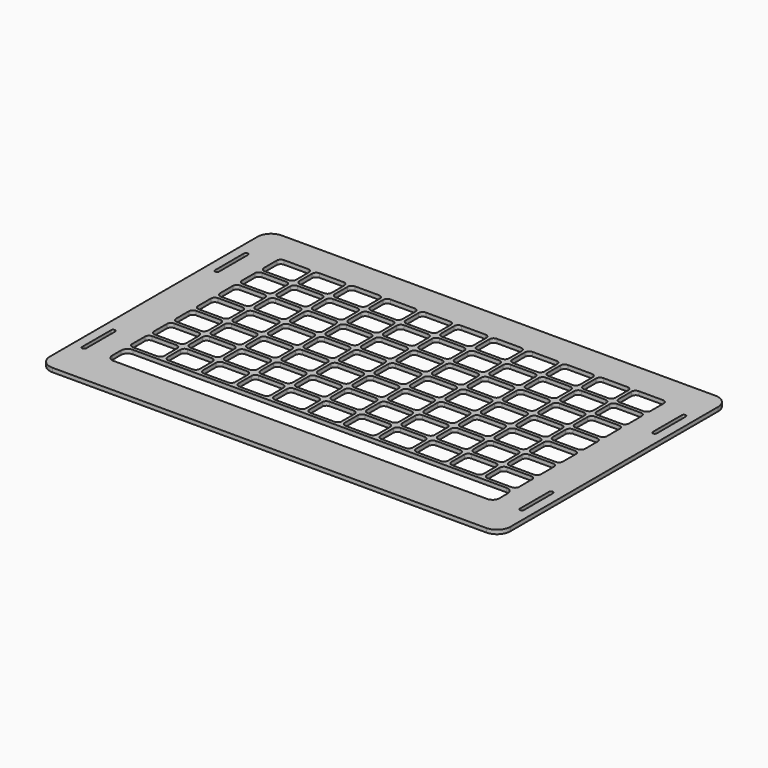
from build123d import *

# Parameters (mm, degrees)
F1_DEPTH = 3
F3_DEPTH = 3
F5_DEPTH = 3
F7_DEPTH = 3


with BuildPart() as f1:
    # F0 (on Top) → F1 (new body)
    with BuildSketch(Plane.XY):
        with BuildLine():
            Line((-162, -107), (162, -107))
            ThreePointArc((162, -107), (169.071068, -104.071068), (172, -97))
            Line((172, -97), (172, 97))
            ThreePointArc((172, 97), (169.071068, 104.071068), (162, 107))
            Line((162, 107), (-162, 107))
            ThreePointArc((-162, 107), (-169.071068, 104.071068), (-172, 97))
            Line((-172, 97), (-172, -97))
            ThreePointArc((-172, -97), (-169.071068, -104.071068), (-162, -107))
        make_face()
    extrude(amount=F1_DEPTH)

    # F2 (on face) → F3 (cut)
    with BuildSketch(Plane.XY.offset(3)):
        with BuildLine():
            Line((-162, -75.5), (-162, -48.5))
            ThreePointArc((-162, -48.5), (-162.43934, -47.43934), (-163.5, -47))
            ThreePointArc((-163.5, -47), (-164.56066, -47.43934), (-165, -48.5))
            Line((-165, -48.5), (-165, -75.5))
            ThreePointArc((-165, -75.5), (-164.56066, -76.56066), (-163.5, -77))
            ThreePointArc((-163.5, -77), (-162.43934, -76.56066), (-162, -75.5))
        make_face()
        with BuildLine():
            ThreePointArc((162, -75.5), (162.43934, -76.56066), (163.5, -77))
            ThreePointArc((163.5, -77), (164.56066, -76.56066), (165, -75.5))
            Line((165, -75.5), (165, -48.5))
            ThreePointArc((165, -48.5), (164.56066, -47.43934), (163.5, -47))
            ThreePointArc((163.5, -47), (162.43934, -47.43934), (162, -48.5))
            Line((162, -48.5), (162, -75.5))
        make_face()
        with BuildLine():
            ThreePointArc((-163.5, 77), (-164.56066, 76.56066), (-165, 75.5))
            Line((-165, 75.5), (-165, 48.5))
            ThreePointArc((-165, 48.5), (-164.56066, 47.43934), (-163.5, 47))
            ThreePointArc((-163.5, 47), (-162.43934, 47.43934), (-162, 48.5))
            Line((-162, 48.5), (-162, 75.5))
            ThreePointArc((-162, 75.5), (-162.43934, 76.56066), (-163.5, 77))
        make_face()
        with BuildLine():
            Line((165, 48.5), (165, 75.5))
            ThreePointArc((165, 75.5), (164.56066, 76.56066), (163.5, 77))
            ThreePointArc((163.5, 77), (162.43934, 76.56066), (162, 75.5))
            Line((162, 75.5), (162, 48.5))
            ThreePointArc((162, 48.5), (162.43934, 47.43934), (163.5, 47))
            ThreePointArc((163.5, 47), (164.56066, 47.43934), (165, 48.5))
        make_face()
    extrude(amount=-F3_DEPTH, mode=Mode.SUBTRACT)

    # F4 (on face) → F5 (cut)
    with BuildSketch(Plane.XY.offset(3)):
        with BuildLine():
            ThreePointArc((-12, 7), (-11.12132, 4.87868), (-9, 4))
            Line((-9, 4), (9, 4))
            ThreePointArc((9, 4), (11.12132, 4.87868), (12, 7))
            Line((12, 7), (12, 19))
            ThreePointArc((12, 19), (11.12132, 21.12132), (9, 22))
            Line((9, 22), (-9, 22))
            ThreePointArc((-9, 22), (-11.12132, 21.12132), (-12, 19))
            Line((-12, 19), (-12, 7))
        make_face()
        with BuildLine():
            Line((38.5, 7), (38.5, 19))
            ThreePointArc((38.5, 19), (37.62132, 21.12132), (35.5, 22))
            Line((35.5, 22), (17.5, 22))
            ThreePointArc((17.5, 22), (15.37868, 21.12132), (14.5, 19))
            Line((14.5, 19), (14.5, 7))
            ThreePointArc((14.5, 7), (15.37868, 4.87868), (17.5, 4))
            Line((17.5, 4), (35.5, 4))
            ThreePointArc((35.5, 4), (37.62132, 4.87868), (38.5, 7))
        make_face()
        with BuildLine():
            Line((65, 7), (65, 19))
            ThreePointArc((65, 19), (64.12132, 21.12132), (62, 22))
            Line((62, 22), (44, 22))
            ThreePointArc((44, 22), (41.87868, 21.12132), (41, 19))
            Line((41, 19), (41, 7))
            ThreePointArc((41, 7), (41.87868, 4.87868), (44, 4))
            Line((44, 4), (62, 4))
            ThreePointArc((62, 4), (64.12132, 4.87868), (65, 7))
        make_face()
        with BuildLine():
            Line((91.5, 7), (91.5, 19))
            ThreePointArc((91.5, 19), (90.62132, 21.12132), (88.5, 22))
            Line((88.5, 22), (70.5, 22))
            ThreePointArc((70.5, 22), (68.37868, 21.12132), (67.5, 19))
            Line((67.5, 19), (67.5, 7))
            ThreePointArc((67.5, 7), (68.37868, 4.87868), (70.5, 4))
            Line((70.5, 4), (88.5, 4))
            ThreePointArc((88.5, 4), (90.62132, 4.87868), (91.5, 7))
        make_face()
        with BuildLine():
            Line((118, 7), (118, 19))
            ThreePointArc((118, 19), (117.12132, 21.12132), (115, 22))
            Line((115, 22), (97, 22))
            ThreePointArc((97, 22), (94.87868, 21.12132), (94, 19))
            Line((94, 19), (94, 7))
            ThreePointArc((94, 7), (94.87868, 4.87868), (97, 4))
            Line((97, 4), (115, 4))
            ThreePointArc((115, 4), (117.12132, 4.87868), (118, 7))
        make_face()
        with BuildLine():
            Line((144.5, 7), (144.5, 19))
            ThreePointArc((144.5, 19), (143.62132, 21.12132), (141.5, 22))
            Line((141.5, 22), (123.5, 22))
            ThreePointArc((123.5, 22), (121.37868, 21.12132), (120.5, 19))
            Line((120.5, 19), (120.5, 7))
            ThreePointArc((120.5, 7), (121.37868, 4.87868), (123.5, 4))
            Line((123.5, 4), (141.5, 4))
            ThreePointArc((141.5, 4), (143.62132, 4.87868), (144.5, 7))
        make_face()
        with BuildLine():
            Line((-14.5, 7), (-14.5, 19))
            ThreePointArc((-14.5, 19), (-15.37868, 21.12132), (-17.5, 22))
            Line((-17.5, 22), (-35.5, 22))
            ThreePointArc((-35.5, 22), (-37.62132, 21.12132), (-38.5, 19))
            Line((-38.5, 19), (-38.5, 7))
            ThreePointArc((-38.5, 7), (-37.62132, 4.87868), (-35.5, 4))
            Line((-35.5, 4), (-17.5, 4))
            ThreePointArc((-17.5, 4), (-15.37868, 4.87868), (-14.5, 7))
        make_face()
        with BuildLine():
            Line((-41, 7), (-41, 19))
            ThreePointArc((-41, 19), (-41.87868, 21.12132), (-44, 22))
            Line((-44, 22), (-62, 22))
            ThreePointArc((-62, 22), (-64.12132, 21.12132), (-65, 19))
            Line((-65, 19), (-65, 7))
            ThreePointArc((-65, 7), (-64.12132, 4.87868), (-62, 4))
            Line((-62, 4), (-44, 4))
            ThreePointArc((-44, 4), (-41.87868, 4.87868), (-41, 7))
        make_face()
        with BuildLine():
            Line((-67.5, 7), (-67.5, 19))
            ThreePointArc((-67.5, 19), (-68.37868, 21.12132), (-70.5, 22))
            Line((-70.5, 22), (-88.5, 22))
            ThreePointArc((-88.5, 22), (-90.62132, 21.12132), (-91.5, 19))
            Line((-91.5, 19), (-91.5, 7))
            ThreePointArc((-91.5, 7), (-90.62132, 4.87868), (-88.5, 4))
            Line((-88.5, 4), (-70.5, 4))
            ThreePointArc((-70.5, 4), (-68.37868, 4.87868), (-67.5, 7))
        make_face()
        with BuildLine():
            Line((-94, 7), (-94, 19))
            ThreePointArc((-94, 19), (-94.87868, 21.12132), (-97, 22))
            Line((-97, 22), (-115, 22))
            ThreePointArc((-115, 22), (-117.12132, 21.12132), (-118, 19))
            Line((-118, 19), (-118, 7))
            ThreePointArc((-118, 7), (-117.12132, 4.87868), (-115, 4))
            Line((-115, 4), (-97, 4))
            ThreePointArc((-97, 4), (-94.87868, 4.87868), (-94, 7))
        make_face()
        with BuildLine():
            Line((-120.5, 7), (-120.5, 19))
            ThreePointArc((-120.5, 19), (-121.37868, 21.12132), (-123.5, 22))
            Line((-123.5, 22), (-141.5, 22))
            ThreePointArc((-141.5, 22), (-143.62132, 21.12132), (-144.5, 19))
            Line((-144.5, 19), (-144.5, 7))
            ThreePointArc((-144.5, 7), (-143.62132, 4.87868), (-141.5, 4))
            Line((-141.5, 4), (-123.5, 4))
            ThreePointArc((-123.5, 4), (-121.37868, 4.87868), (-120.5, 7))
        make_face()
        with BuildLine():
            Line((9, 42.5), (-9, 42.5))
            ThreePointArc((-9, 42.5), (-11.12132, 41.62132), (-12, 39.5))
            Line((-12, 39.5), (-12, 27.5))
            ThreePointArc((-12, 27.5), (-11.12132, 25.37868), (-9, 24.5))
            Line((-9, 24.5), (9, 24.5))
            ThreePointArc((9, 24.5), (11.12132, 25.37868), (12, 27.5))
            Line((12, 27.5), (12, 39.5))
            ThreePointArc((12, 39.5), (11.12132, 41.62132), (9, 42.5))
        make_face()
        with BuildLine():
            Line((-44, 42.5), (-62, 42.5))
            ThreePointArc((-62, 42.5), (-64.12132, 41.62132), (-65, 39.5))
            Line((-65, 39.5), (-65, 27.5))
            ThreePointArc((-65, 27.5), (-64.12132, 25.37868), (-62, 24.5))
            Line((-62, 24.5), (-44, 24.5))
            ThreePointArc((-44, 24.5), (-41.87868, 25.37868), (-41, 27.5))
            Line((-41, 27.5), (-41, 39.5))
            ThreePointArc((-41, 39.5), (-41.87868, 41.62132), (-44, 42.5))
        make_face()
        with BuildLine():
            Line((-97, 42.5), (-115, 42.5))
            ThreePointArc((-115, 42.5), (-117.12132, 41.62132), (-118, 39.5))
            Line((-118, 39.5), (-118, 27.5))
            ThreePointArc((-118, 27.5), (-117.12132, 25.37868), (-115, 24.5))
            Line((-115, 24.5), (-97, 24.5))
            ThreePointArc((-97, 24.5), (-94.87868, 25.37868), (-94, 27.5))
            Line((-94, 27.5), (-94, 39.5))
            ThreePointArc((-94, 39.5), (-94.87868, 41.62132), (-97, 42.5))
        make_face()
        with BuildLine():
            ThreePointArc((14.5, 27.5), (15.37868, 25.37868), (17.5, 24.5))
            Line((17.5, 24.5), (35.5, 24.5))
            ThreePointArc((35.5, 24.5), (37.62132, 25.37868), (38.5, 27.5))
            Line((38.5, 27.5), (38.5, 39.5))
            ThreePointArc((38.5, 39.5), (37.62132, 41.62132), (35.5, 42.5))
            Line((35.5, 42.5), (17.5, 42.5))
            ThreePointArc((17.5, 42.5), (15.37868, 41.62132), (14.5, 39.5))
            Line((14.5, 39.5), (14.5, 27.5))
        make_face()
        with BuildLine():
            Line((62, 42.5), (44, 42.5))
            ThreePointArc((44, 42.5), (41.87868, 41.62132), (41, 39.5))
            Line((41, 39.5), (41, 27.5))
            ThreePointArc((41, 27.5), (41.87868, 25.37868), (44, 24.5))
            Line((44, 24.5), (62, 24.5))
            ThreePointArc((62, 24.5), (64.12132, 25.37868), (65, 27.5))
            Line((65, 27.5), (65, 39.5))
            ThreePointArc((65, 39.5), (64.12132, 41.62132), (62, 42.5))
        make_face()
        with BuildLine():
            Line((115, 42.5), (97, 42.5))
            ThreePointArc((97, 42.5), (94.87868, 41.62132), (94, 39.5))
            Line((94, 39.5), (94, 27.5))
            ThreePointArc((94, 27.5), (94.87868, 25.37868), (97, 24.5))
            Line((97, 24.5), (115, 24.5))
            ThreePointArc((115, 24.5), (117.12132, 25.37868), (118, 27.5))
            Line((118, 27.5), (118, 39.5))
            ThreePointArc((118, 39.5), (117.12132, 41.62132), (115, 42.5))
        make_face()
        with BuildLine():
            ThreePointArc((-144.5, 27.5), (-143.62132, 25.37868), (-141.5, 24.5))
            Line((-141.5, 24.5), (-123.5, 24.5))
            ThreePointArc((-123.5, 24.5), (-121.37868, 25.37868), (-120.5, 27.5))
            Line((-120.5, 27.5), (-120.5, 39.5))
            ThreePointArc((-120.5, 39.5), (-121.37868, 41.62132), (-123.5, 42.5))
            Line((-123.5, 42.5), (-141.5, 42.5))
            ThreePointArc((-141.5, 42.5), (-143.62132, 41.62132), (-144.5, 39.5))
            Line((-144.5, 39.5), (-144.5, 27.5))
        make_face()
        with BuildLine():
            ThreePointArc((-91.5, 27.5), (-90.62132, 25.37868), (-88.5, 24.5))
            Line((-88.5, 24.5), (-70.5, 24.5))
            ThreePointArc((-70.5, 24.5), (-68.37868, 25.37868), (-67.5, 27.5))
            Line((-67.5, 27.5), (-67.5, 39.5))
            ThreePointArc((-67.5, 39.5), (-68.37868, 41.62132), (-70.5, 42.5))
            Line((-70.5, 42.5), (-88.5, 42.5))
            ThreePointArc((-88.5, 42.5), (-90.62132, 41.62132), (-91.5, 39.5))
            Line((-91.5, 39.5), (-91.5, 27.5))
        make_face()
        with BuildLine():
            Line((-17.5, 42.5), (-35.5, 42.5))
            ThreePointArc((-35.5, 42.5), (-37.62132, 41.62132), (-38.5, 39.5))
            Line((-38.5, 39.5), (-38.5, 27.5))
            ThreePointArc((-38.5, 27.5), (-37.62132, 25.37868), (-35.5, 24.5))
            Line((-35.5, 24.5), (-17.5, 24.5))
            ThreePointArc((-17.5, 24.5), (-15.37868, 25.37868), (-14.5, 27.5))
            Line((-14.5, 27.5), (-14.5, 39.5))
            ThreePointArc((-14.5, 39.5), (-15.37868, 41.62132), (-17.5, 42.5))
        make_face()
        with BuildLine():
            Line((88.5, 42.5), (70.5, 42.5))
            ThreePointArc((70.5, 42.5), (68.37868, 41.62132), (67.5, 39.5))
            Line((67.5, 39.5), (67.5, 27.5))
            ThreePointArc((67.5, 27.5), (68.37868, 25.37868), (70.5, 24.5))
            Line((70.5, 24.5), (88.5, 24.5))
            ThreePointArc((88.5, 24.5), (90.62132, 25.37868), (91.5, 27.5))
            Line((91.5, 27.5), (91.5, 39.5))
            ThreePointArc((91.5, 39.5), (90.62132, 41.62132), (88.5, 42.5))
        make_face()
        with BuildLine():
            Line((141.5, 42.5), (123.5, 42.5))
            ThreePointArc((123.5, 42.5), (121.37868, 41.62132), (120.5, 39.5))
            Line((120.5, 39.5), (120.5, 27.5))
            ThreePointArc((120.5, 27.5), (121.37868, 25.37868), (123.5, 24.5))
            Line((123.5, 24.5), (141.5, 24.5))
            ThreePointArc((141.5, 24.5), (143.62132, 25.37868), (144.5, 27.5))
            Line((144.5, 27.5), (144.5, 39.5))
            ThreePointArc((144.5, 39.5), (143.62132, 41.62132), (141.5, 42.5))
        make_face()
        with BuildLine():
            Line((9, 63), (-9, 63))
            ThreePointArc((-9, 63), (-11.12132, 62.12132), (-12, 60))
            Line((-12, 60), (-12, 48))
            ThreePointArc((-12, 48), (-11.12132, 45.87868), (-9, 45))
            Line((-9, 45), (9, 45))
            ThreePointArc((9, 45), (11.12132, 45.87868), (12, 48))
            Line((12, 48), (12, 60))
            ThreePointArc((12, 60), (11.12132, 62.12132), (9, 63))
        make_face()
        with BuildLine():
            Line((-44, 63), (-62, 63))
            ThreePointArc((-62, 63), (-64.12132, 62.12132), (-65, 60))
            Line((-65, 60), (-65, 48))
            ThreePointArc((-65, 48), (-64.12132, 45.87868), (-62, 45))
            Line((-62, 45), (-44, 45))
            ThreePointArc((-44, 45), (-41.87868, 45.87868), (-41, 48))
            Line((-41, 48), (-41, 60))
            ThreePointArc((-41, 60), (-41.87868, 62.12132), (-44, 63))
        make_face()
        with BuildLine():
            Line((-97, 63), (-115, 63))
            ThreePointArc((-115, 63), (-117.12132, 62.12132), (-118, 60))
            Line((-118, 60), (-118, 48))
            ThreePointArc((-118, 48), (-117.12132, 45.87868), (-115, 45))
            Line((-115, 45), (-97, 45))
            ThreePointArc((-97, 45), (-94.87868, 45.87868), (-94, 48))
            Line((-94, 48), (-94, 60))
            ThreePointArc((-94, 60), (-94.87868, 62.12132), (-97, 63))
        make_face()
        with BuildLine():
            ThreePointArc((14.5, 48), (15.37868, 45.87868), (17.5, 45))
            Line((17.5, 45), (35.5, 45))
            ThreePointArc((35.5, 45), (37.62132, 45.87868), (38.5, 48))
            Line((38.5, 48), (38.5, 60))
            ThreePointArc((38.5, 60), (37.62132, 62.12132), (35.5, 63))
            Line((35.5, 63), (17.5, 63))
            ThreePointArc((17.5, 63), (15.37868, 62.12132), (14.5, 60))
            Line((14.5, 60), (14.5, 48))
        make_face()
        with BuildLine():
            Line((62, 63), (44, 63))
            ThreePointArc((44, 63), (41.87868, 62.12132), (41, 60))
            Line((41, 60), (41, 48))
            ThreePointArc((41, 48), (41.87868, 45.87868), (44, 45))
            Line((44, 45), (62, 45))
            ThreePointArc((62, 45), (64.12132, 45.87868), (65, 48))
            Line((65, 48), (65, 60))
            ThreePointArc((65, 60), (64.12132, 62.12132), (62, 63))
        make_face()
        with BuildLine():
            Line((115, 63), (97, 63))
            ThreePointArc((97, 63), (94.87868, 62.12132), (94, 60))
            Line((94, 60), (94, 48))
            ThreePointArc((94, 48), (94.87868, 45.87868), (97, 45))
            Line((97, 45), (115, 45))
            ThreePointArc((115, 45), (117.12132, 45.87868), (118, 48))
            Line((118, 48), (118, 60))
            ThreePointArc((118, 60), (117.12132, 62.12132), (115, 63))
        make_face()
        with BuildLine():
            ThreePointArc((-144.5, 48), (-143.62132, 45.87868), (-141.5, 45))
            Line((-141.5, 45), (-123.5, 45))
            ThreePointArc((-123.5, 45), (-121.37868, 45.87868), (-120.5, 48))
            Line((-120.5, 48), (-120.5, 60))
            ThreePointArc((-120.5, 60), (-121.37868, 62.12132), (-123.5, 63))
            Line((-123.5, 63), (-141.5, 63))
            ThreePointArc((-141.5, 63), (-143.62132, 62.12132), (-144.5, 60))
            Line((-144.5, 60), (-144.5, 48))
        make_face()
        with BuildLine():
            ThreePointArc((-91.5, 48), (-90.62132, 45.87868), (-88.5, 45))
            Line((-88.5, 45), (-70.5, 45))
            ThreePointArc((-70.5, 45), (-68.37868, 45.87868), (-67.5, 48))
            Line((-67.5, 48), (-67.5, 60))
            ThreePointArc((-67.5, 60), (-68.37868, 62.12132), (-70.5, 63))
            Line((-70.5, 63), (-88.5, 63))
            ThreePointArc((-88.5, 63), (-90.62132, 62.12132), (-91.5, 60))
            Line((-91.5, 60), (-91.5, 48))
        make_face()
        with BuildLine():
            Line((-17.5, 63), (-35.5, 63))
            ThreePointArc((-35.5, 63), (-37.62132, 62.12132), (-38.5, 60))
            Line((-38.5, 60), (-38.5, 48))
            ThreePointArc((-38.5, 48), (-37.62132, 45.87868), (-35.5, 45))
            Line((-35.5, 45), (-17.5, 45))
            ThreePointArc((-17.5, 45), (-15.37868, 45.87868), (-14.5, 48))
            Line((-14.5, 48), (-14.5, 60))
            ThreePointArc((-14.5, 60), (-15.37868, 62.12132), (-17.5, 63))
        make_face()
        with BuildLine():
            Line((88.5, 63), (70.5, 63))
            ThreePointArc((70.5, 63), (68.37868, 62.12132), (67.5, 60))
            Line((67.5, 60), (67.5, 48))
            ThreePointArc((67.5, 48), (68.37868, 45.87868), (70.5, 45))
            Line((70.5, 45), (88.5, 45))
            ThreePointArc((88.5, 45), (90.62132, 45.87868), (91.5, 48))
            Line((91.5, 48), (91.5, 60))
            ThreePointArc((91.5, 60), (90.62132, 62.12132), (88.5, 63))
        make_face()
        with BuildLine():
            Line((141.5, 63), (123.5, 63))
            ThreePointArc((123.5, 63), (121.37868, 62.12132), (120.5, 60))
            Line((120.5, 60), (120.5, 48))
            ThreePointArc((120.5, 48), (121.37868, 45.87868), (123.5, 45))
            Line((123.5, 45), (141.5, 45))
            ThreePointArc((141.5, 45), (143.62132, 45.87868), (144.5, 48))
            Line((144.5, 48), (144.5, 60))
            ThreePointArc((144.5, 60), (143.62132, 62.12132), (141.5, 63))
        make_face()
        with BuildLine():
            Line((9, 83.5), (-9, 83.5))
            ThreePointArc((-9, 83.5), (-11.12132, 82.62132), (-12, 80.5))
            Line((-12, 80.5), (-12, 68.5))
            ThreePointArc((-12, 68.5), (-11.12132, 66.37868), (-9, 65.5))
            Line((-9, 65.5), (9, 65.5))
            ThreePointArc((9, 65.5), (11.12132, 66.37868), (12, 68.5))
            Line((12, 68.5), (12, 80.5))
            ThreePointArc((12, 80.5), (11.12132, 82.62132), (9, 83.5))
        make_face()
        with BuildLine():
            Line((-44, 83.5), (-62, 83.5))
            ThreePointArc((-62, 83.5), (-64.12132, 82.62132), (-65, 80.5))
            Line((-65, 80.5), (-65, 68.5))
            ThreePointArc((-65, 68.5), (-64.12132, 66.37868), (-62, 65.5))
            Line((-62, 65.5), (-44, 65.5))
            ThreePointArc((-44, 65.5), (-41.87868, 66.37868), (-41, 68.5))
            Line((-41, 68.5), (-41, 80.5))
            ThreePointArc((-41, 80.5), (-41.87868, 82.62132), (-44, 83.5))
        make_face()
        with BuildLine():
            Line((-97, 83.5), (-115, 83.5))
            ThreePointArc((-115, 83.5), (-117.12132, 82.62132), (-118, 80.5))
            Line((-118, 80.5), (-118, 68.5))
            ThreePointArc((-118, 68.5), (-117.12132, 66.37868), (-115, 65.5))
            Line((-115, 65.5), (-97, 65.5))
            ThreePointArc((-97, 65.5), (-94.87868, 66.37868), (-94, 68.5))
            Line((-94, 68.5), (-94, 80.5))
            ThreePointArc((-94, 80.5), (-94.87868, 82.62132), (-97, 83.5))
        make_face()
        with BuildLine():
            ThreePointArc((14.5, 68.5), (15.37868, 66.37868), (17.5, 65.5))
            Line((17.5, 65.5), (35.5, 65.5))
            ThreePointArc((35.5, 65.5), (37.62132, 66.37868), (38.5, 68.5))
            Line((38.5, 68.5), (38.5, 80.5))
            ThreePointArc((38.5, 80.5), (37.62132, 82.62132), (35.5, 83.5))
            Line((35.5, 83.5), (17.5, 83.5))
            ThreePointArc((17.5, 83.5), (15.37868, 82.62132), (14.5, 80.5))
            Line((14.5, 80.5), (14.5, 68.5))
        make_face()
        with BuildLine():
            Line((62, 83.5), (44, 83.5))
            ThreePointArc((44, 83.5), (41.87868, 82.62132), (41, 80.5))
            Line((41, 80.5), (41, 68.5))
            ThreePointArc((41, 68.5), (41.87868, 66.37868), (44, 65.5))
            Line((44, 65.5), (62, 65.5))
            ThreePointArc((62, 65.5), (64.12132, 66.37868), (65, 68.5))
            Line((65, 68.5), (65, 80.5))
            ThreePointArc((65, 80.5), (64.12132, 82.62132), (62, 83.5))
        make_face()
        with BuildLine():
            Line((115, 83.5), (97, 83.5))
            ThreePointArc((97, 83.5), (94.87868, 82.62132), (94, 80.5))
            Line((94, 80.5), (94, 68.5))
            ThreePointArc((94, 68.5), (94.87868, 66.37868), (97, 65.5))
            Line((97, 65.5), (115, 65.5))
            ThreePointArc((115, 65.5), (117.12132, 66.37868), (118, 68.5))
            Line((118, 68.5), (118, 80.5))
            ThreePointArc((118, 80.5), (117.12132, 82.62132), (115, 83.5))
        make_face()
        with BuildLine():
            ThreePointArc((-144.5, 68.5), (-143.62132, 66.37868), (-141.5, 65.5))
            Line((-141.5, 65.5), (-123.5, 65.5))
            ThreePointArc((-123.5, 65.5), (-121.37868, 66.37868), (-120.5, 68.5))
            Line((-120.5, 68.5), (-120.5, 80.5))
            ThreePointArc((-120.5, 80.5), (-121.37868, 82.62132), (-123.5, 83.5))
            Line((-123.5, 83.5), (-141.5, 83.5))
            ThreePointArc((-141.5, 83.5), (-143.62132, 82.62132), (-144.5, 80.5))
            Line((-144.5, 80.5), (-144.5, 68.5))
        make_face()
        with BuildLine():
            ThreePointArc((-91.5, 68.5), (-90.62132, 66.37868), (-88.5, 65.5))
            Line((-88.5, 65.5), (-70.5, 65.5))
            ThreePointArc((-70.5, 65.5), (-68.37868, 66.37868), (-67.5, 68.5))
            Line((-67.5, 68.5), (-67.5, 80.5))
            ThreePointArc((-67.5, 80.5), (-68.37868, 82.62132), (-70.5, 83.5))
            Line((-70.5, 83.5), (-88.5, 83.5))
            ThreePointArc((-88.5, 83.5), (-90.62132, 82.62132), (-91.5, 80.5))
            Line((-91.5, 80.5), (-91.5, 68.5))
        make_face()
        with BuildLine():
            Line((-17.5, 83.5), (-35.5, 83.5))
            ThreePointArc((-35.5, 83.5), (-37.62132, 82.62132), (-38.5, 80.5))
            Line((-38.5, 80.5), (-38.5, 68.5))
            ThreePointArc((-38.5, 68.5), (-37.62132, 66.37868), (-35.5, 65.5))
            Line((-35.5, 65.5), (-17.5, 65.5))
            ThreePointArc((-17.5, 65.5), (-15.37868, 66.37868), (-14.5, 68.5))
            Line((-14.5, 68.5), (-14.5, 80.5))
            ThreePointArc((-14.5, 80.5), (-15.37868, 82.62132), (-17.5, 83.5))
        make_face()
        with BuildLine():
            Line((88.5, 83.5), (70.5, 83.5))
            ThreePointArc((70.5, 83.5), (68.37868, 82.62132), (67.5, 80.5))
            Line((67.5, 80.5), (67.5, 68.5))
            ThreePointArc((67.5, 68.5), (68.37868, 66.37868), (70.5, 65.5))
            Line((70.5, 65.5), (88.5, 65.5))
            ThreePointArc((88.5, 65.5), (90.62132, 66.37868), (91.5, 68.5))
            Line((91.5, 68.5), (91.5, 80.5))
            ThreePointArc((91.5, 80.5), (90.62132, 82.62132), (88.5, 83.5))
        make_face()
        with BuildLine():
            Line((141.5, 83.5), (123.5, 83.5))
            ThreePointArc((123.5, 83.5), (121.37868, 82.62132), (120.5, 80.5))
            Line((120.5, 80.5), (120.5, 68.5))
            ThreePointArc((120.5, 68.5), (121.37868, 66.37868), (123.5, 65.5))
            Line((123.5, 65.5), (141.5, 65.5))
            ThreePointArc((141.5, 65.5), (143.62132, 66.37868), (144.5, 68.5))
            Line((144.5, 68.5), (144.5, 80.5))
            ThreePointArc((144.5, 80.5), (143.62132, 82.62132), (141.5, 83.5))
        make_face()
        with BuildLine():
            ThreePointArc((-9, 1.5), (-11.12132, 0.62132), (-12, -1.5))
            Line((-12, -1.5), (-12, -13.5))
            ThreePointArc((-12, -13.5), (-11.12132, -15.62132), (-9, -16.5))
            Line((-9, -16.5), (9, -16.5))
            ThreePointArc((9, -16.5), (11.12132, -15.62132), (12, -13.5))
            Line((12, -13.5), (12, -1.5))
            ThreePointArc((12, -1.5), (11.12132, 0.62132), (9, 1.5))
            Line((9, 1.5), (-9, 1.5))
        make_face()
        with BuildLine():
            Line((-70.5, 1.5), (-88.5, 1.5))
            ThreePointArc((-88.5, 1.5), (-90.62132, 0.62132), (-91.5, -1.5))
            Line((-91.5, -1.5), (-91.5, -13.5))
            ThreePointArc((-91.5, -13.5), (-90.62132, -15.62132), (-88.5, -16.5))
            Line((-88.5, -16.5), (-70.5, -16.5))
            ThreePointArc((-70.5, -16.5), (-68.37868, -15.62132), (-67.5, -13.5))
            Line((-67.5, -13.5), (-67.5, -1.5))
            ThreePointArc((-67.5, -1.5), (-68.37868, 0.62132), (-70.5, 1.5))
        make_face()
        with BuildLine():
            Line((-123.5, 1.5), (-141.5, 1.5))
            ThreePointArc((-141.5, 1.5), (-143.62132, 0.62132), (-144.5, -1.5))
            Line((-144.5, -1.5), (-144.5, -13.5))
            ThreePointArc((-144.5, -13.5), (-143.62132, -15.62132), (-141.5, -16.5))
            Line((-141.5, -16.5), (-123.5, -16.5))
            ThreePointArc((-123.5, -16.5), (-121.37868, -15.62132), (-120.5, -13.5))
            Line((-120.5, -13.5), (-120.5, -1.5))
            ThreePointArc((-120.5, -1.5), (-121.37868, 0.62132), (-123.5, 1.5))
        make_face()
        with BuildLine():
            Line((-17.5, 1.5), (-35.5, 1.5))
            ThreePointArc((-35.5, 1.5), (-37.62132, 0.62132), (-38.5, -1.5))
            Line((-38.5, -1.5), (-38.5, -13.5))
            ThreePointArc((-38.5, -13.5), (-37.62132, -15.62132), (-35.5, -16.5))
            Line((-35.5, -16.5), (-17.5, -16.5))
            ThreePointArc((-17.5, -16.5), (-15.37868, -15.62132), (-14.5, -13.5))
            Line((-14.5, -13.5), (-14.5, -1.5))
            ThreePointArc((-14.5, -1.5), (-15.37868, 0.62132), (-17.5, 1.5))
        make_face()
        with BuildLine():
            ThreePointArc((41, -13.5), (41.87868, -15.62132), (44, -16.5))
            Line((44, -16.5), (62, -16.5))
            ThreePointArc((62, -16.5), (64.12132, -15.62132), (65, -13.5))
            Line((65, -13.5), (65, -1.5))
            ThreePointArc((65, -1.5), (64.12132, 0.62132), (62, 1.5))
            Line((62, 1.5), (44, 1.5))
            ThreePointArc((44, 1.5), (41.87868, 0.62132), (41, -1.5))
            Line((41, -1.5), (41, -13.5))
        make_face()
        with BuildLine():
            ThreePointArc((94, -13.5), (94.87868, -15.62132), (97, -16.5))
            Line((97, -16.5), (115, -16.5))
            ThreePointArc((115, -16.5), (117.12132, -15.62132), (118, -13.5))
            Line((118, -13.5), (118, -1.5))
            ThreePointArc((118, -1.5), (117.12132, 0.62132), (115, 1.5))
            Line((115, 1.5), (97, 1.5))
            ThreePointArc((97, 1.5), (94.87868, 0.62132), (94, -1.5))
            Line((94, -1.5), (94, -13.5))
        make_face()
        with BuildLine():
            Line((-44, 1.5), (-62, 1.5))
            ThreePointArc((-62, 1.5), (-64.12132, 0.62132), (-65, -1.5))
            Line((-65, -1.5), (-65, -13.5))
            ThreePointArc((-65, -13.5), (-64.12132, -15.62132), (-62, -16.5))
            Line((-62, -16.5), (-44, -16.5))
            ThreePointArc((-44, -16.5), (-41.87868, -15.62132), (-41, -13.5))
            Line((-41, -13.5), (-41, -1.5))
            ThreePointArc((-41, -1.5), (-41.87868, 0.62132), (-44, 1.5))
        make_face()
        with BuildLine():
            Line((-97, 1.5), (-115, 1.5))
            ThreePointArc((-115, 1.5), (-117.12132, 0.62132), (-118, -1.5))
            Line((-118, -1.5), (-118, -13.5))
            ThreePointArc((-118, -13.5), (-117.12132, -15.62132), (-115, -16.5))
            Line((-115, -16.5), (-97, -16.5))
            ThreePointArc((-97, -16.5), (-94.87868, -15.62132), (-94, -13.5))
            Line((-94, -13.5), (-94, -1.5))
            ThreePointArc((-94, -1.5), (-94.87868, 0.62132), (-97, 1.5))
        make_face()
        with BuildLine():
            ThreePointArc((14.5, -13.5), (15.37868, -15.62132), (17.5, -16.5))
            Line((17.5, -16.5), (35.5, -16.5))
            ThreePointArc((35.5, -16.5), (37.62132, -15.62132), (38.5, -13.5))
            Line((38.5, -13.5), (38.5, -1.5))
            ThreePointArc((38.5, -1.5), (37.62132, 0.62132), (35.5, 1.5))
            Line((35.5, 1.5), (17.5, 1.5))
            ThreePointArc((17.5, 1.5), (15.37868, 0.62132), (14.5, -1.5))
            Line((14.5, -1.5), (14.5, -13.5))
        make_face()
        with BuildLine():
            ThreePointArc((123.5, 1.5), (121.37868, 0.62132), (120.5, -1.5))
            Line((120.5, -1.5), (120.5, -13.5))
            ThreePointArc((120.5, -13.5), (121.37868, -15.62132), (123.5, -16.5))
            Line((123.5, -16.5), (141.5, -16.5))
            ThreePointArc((141.5, -16.5), (143.62132, -15.62132), (144.5, -13.5))
            Line((144.5, -13.5), (144.5, -1.5))
            ThreePointArc((144.5, -1.5), (143.62132, 0.62132), (141.5, 1.5))
            Line((141.5, 1.5), (123.5, 1.5))
        make_face()
        with BuildLine():
            ThreePointArc((70.5, 1.5), (68.37868, 0.62132), (67.5, -1.5))
            Line((67.5, -1.5), (67.5, -13.5))
            ThreePointArc((67.5, -13.5), (68.37868, -15.62132), (70.5, -16.5))
            Line((70.5, -16.5), (88.5, -16.5))
            ThreePointArc((88.5, -16.5), (90.62132, -15.62132), (91.5, -13.5))
            Line((91.5, -13.5), (91.5, -1.5))
            ThreePointArc((91.5, -1.5), (90.62132, 0.62132), (88.5, 1.5))
            Line((88.5, 1.5), (70.5, 1.5))
        make_face()
        with BuildLine():
            ThreePointArc((-9, -19), (-11.12132, -19.87868), (-12, -22))
            Line((-12, -22), (-12, -34))
            ThreePointArc((-12, -34), (-11.12132, -36.12132), (-9, -37))
            Line((-9, -37), (9, -37))
            ThreePointArc((9, -37), (11.12132, -36.12132), (12, -34))
            Line((12, -34), (12, -22))
            ThreePointArc((12, -22), (11.12132, -19.87868), (9, -19))
            Line((9, -19), (-9, -19))
        make_face()
        with BuildLine():
            Line((-70.5, -19), (-88.5, -19))
            ThreePointArc((-88.5, -19), (-90.62132, -19.87868), (-91.5, -22))
            Line((-91.5, -22), (-91.5, -34))
            ThreePointArc((-91.5, -34), (-90.62132, -36.12132), (-88.5, -37))
            Line((-88.5, -37), (-70.5, -37))
            ThreePointArc((-70.5, -37), (-68.37868, -36.12132), (-67.5, -34))
            Line((-67.5, -34), (-67.5, -22))
            ThreePointArc((-67.5, -22), (-68.37868, -19.87868), (-70.5, -19))
        make_face()
        with BuildLine():
            Line((-123.5, -19), (-141.5, -19))
            ThreePointArc((-141.5, -19), (-143.62132, -19.87868), (-144.5, -22))
            Line((-144.5, -22), (-144.5, -34))
            ThreePointArc((-144.5, -34), (-143.62132, -36.12132), (-141.5, -37))
            Line((-141.5, -37), (-123.5, -37))
            ThreePointArc((-123.5, -37), (-121.37868, -36.12132), (-120.5, -34))
            Line((-120.5, -34), (-120.5, -22))
            ThreePointArc((-120.5, -22), (-121.37868, -19.87868), (-123.5, -19))
        make_face()
        with BuildLine():
            Line((-17.5, -19), (-35.5, -19))
            ThreePointArc((-35.5, -19), (-37.62132, -19.87868), (-38.5, -22))
            Line((-38.5, -22), (-38.5, -34))
            ThreePointArc((-38.5, -34), (-37.62132, -36.12132), (-35.5, -37))
            Line((-35.5, -37), (-17.5, -37))
            ThreePointArc((-17.5, -37), (-15.37868, -36.12132), (-14.5, -34))
            Line((-14.5, -34), (-14.5, -22))
            ThreePointArc((-14.5, -22), (-15.37868, -19.87868), (-17.5, -19))
        make_face()
        with BuildLine():
            ThreePointArc((41, -34), (41.87868, -36.12132), (44, -37))
            Line((44, -37), (62, -37))
            ThreePointArc((62, -37), (64.12132, -36.12132), (65, -34))
            Line((65, -34), (65, -22))
            ThreePointArc((65, -22), (64.12132, -19.87868), (62, -19))
            Line((62, -19), (44, -19))
            ThreePointArc((44, -19), (41.87868, -19.87868), (41, -22))
            Line((41, -22), (41, -34))
        make_face()
        with BuildLine():
            ThreePointArc((94, -34), (94.87868, -36.12132), (97, -37))
            Line((97, -37), (115, -37))
            ThreePointArc((115, -37), (117.12132, -36.12132), (118, -34))
            Line((118, -34), (118, -22))
            ThreePointArc((118, -22), (117.12132, -19.87868), (115, -19))
            Line((115, -19), (97, -19))
            ThreePointArc((97, -19), (94.87868, -19.87868), (94, -22))
            Line((94, -22), (94, -34))
        make_face()
        with BuildLine():
            Line((-44, -19), (-62, -19))
            ThreePointArc((-62, -19), (-64.12132, -19.87868), (-65, -22))
            Line((-65, -22), (-65, -34))
            ThreePointArc((-65, -34), (-64.12132, -36.12132), (-62, -37))
            Line((-62, -37), (-44, -37))
            ThreePointArc((-44, -37), (-41.87868, -36.12132), (-41, -34))
            Line((-41, -34), (-41, -22))
            ThreePointArc((-41, -22), (-41.87868, -19.87868), (-44, -19))
        make_face()
        with BuildLine():
            Line((-97, -19), (-115, -19))
            ThreePointArc((-115, -19), (-117.12132, -19.87868), (-118, -22))
            Line((-118, -22), (-118, -34))
            ThreePointArc((-118, -34), (-117.12132, -36.12132), (-115, -37))
            Line((-115, -37), (-97, -37))
            ThreePointArc((-97, -37), (-94.87868, -36.12132), (-94, -34))
            Line((-94, -34), (-94, -22))
            ThreePointArc((-94, -22), (-94.87868, -19.87868), (-97, -19))
        make_face()
        with BuildLine():
            ThreePointArc((14.5, -34), (15.37868, -36.12132), (17.5, -37))
            Line((17.5, -37), (35.5, -37))
            ThreePointArc((35.5, -37), (37.62132, -36.12132), (38.5, -34))
            Line((38.5, -34), (38.5, -22))
            ThreePointArc((38.5, -22), (37.62132, -19.87868), (35.5, -19))
            Line((35.5, -19), (17.5, -19))
            ThreePointArc((17.5, -19), (15.37868, -19.87868), (14.5, -22))
            Line((14.5, -22), (14.5, -34))
        make_face()
        with BuildLine():
            ThreePointArc((123.5, -19), (121.37868, -19.87868), (120.5, -22))
            Line((120.5, -22), (120.5, -34))
            ThreePointArc((120.5, -34), (121.37868, -36.12132), (123.5, -37))
            Line((123.5, -37), (141.5, -37))
            ThreePointArc((141.5, -37), (143.62132, -36.12132), (144.5, -34))
            Line((144.5, -34), (144.5, -22))
            ThreePointArc((144.5, -22), (143.62132, -19.87868), (141.5, -19))
            Line((141.5, -19), (123.5, -19))
        make_face()
        with BuildLine():
            ThreePointArc((70.5, -19), (68.37868, -19.87868), (67.5, -22))
            Line((67.5, -22), (67.5, -34))
            ThreePointArc((67.5, -34), (68.37868, -36.12132), (70.5, -37))
            Line((70.5, -37), (88.5, -37))
            ThreePointArc((88.5, -37), (90.62132, -36.12132), (91.5, -34))
            Line((91.5, -34), (91.5, -22))
            ThreePointArc((91.5, -22), (90.62132, -19.87868), (88.5, -19))
            Line((88.5, -19), (70.5, -19))
        make_face()
        with BuildLine():
            ThreePointArc((-9, -39.5), (-11.12132, -40.37868), (-12, -42.5))
            Line((-12, -42.5), (-12, -54.5))
            ThreePointArc((-12, -54.5), (-11.12132, -56.62132), (-9, -57.5))
            Line((-9, -57.5), (9, -57.5))
            ThreePointArc((9, -57.5), (11.12132, -56.62132), (12, -54.5))
            Line((12, -54.5), (12, -42.5))
            ThreePointArc((12, -42.5), (11.12132, -40.37868), (9, -39.5))
            Line((9, -39.5), (-9, -39.5))
        make_face()
        with BuildLine():
            Line((-70.5, -39.5), (-88.5, -39.5))
            ThreePointArc((-88.5, -39.5), (-90.62132, -40.37868), (-91.5, -42.5))
            Line((-91.5, -42.5), (-91.5, -54.5))
            ThreePointArc((-91.5, -54.5), (-90.62132, -56.62132), (-88.5, -57.5))
            Line((-88.5, -57.5), (-70.5, -57.5))
            ThreePointArc((-70.5, -57.5), (-68.37868, -56.62132), (-67.5, -54.5))
            Line((-67.5, -54.5), (-67.5, -42.5))
            ThreePointArc((-67.5, -42.5), (-68.37868, -40.37868), (-70.5, -39.5))
        make_face()
        with BuildLine():
            Line((-123.5, -39.5), (-141.5, -39.5))
            ThreePointArc((-141.5, -39.5), (-143.62132, -40.37868), (-144.5, -42.5))
            Line((-144.5, -42.5), (-144.5, -54.5))
            ThreePointArc((-144.5, -54.5), (-143.62132, -56.62132), (-141.5, -57.5))
            Line((-141.5, -57.5), (-123.5, -57.5))
            ThreePointArc((-123.5, -57.5), (-121.37868, -56.62132), (-120.5, -54.5))
            Line((-120.5, -54.5), (-120.5, -42.5))
            ThreePointArc((-120.5, -42.5), (-121.37868, -40.37868), (-123.5, -39.5))
        make_face()
        with BuildLine():
            Line((-17.5, -39.5), (-35.5, -39.5))
            ThreePointArc((-35.5, -39.5), (-37.62132, -40.37868), (-38.5, -42.5))
            Line((-38.5, -42.5), (-38.5, -54.5))
            ThreePointArc((-38.5, -54.5), (-37.62132, -56.62132), (-35.5, -57.5))
            Line((-35.5, -57.5), (-17.5, -57.5))
            ThreePointArc((-17.5, -57.5), (-15.37868, -56.62132), (-14.5, -54.5))
            Line((-14.5, -54.5), (-14.5, -42.5))
            ThreePointArc((-14.5, -42.5), (-15.37868, -40.37868), (-17.5, -39.5))
        make_face()
        with BuildLine():
            ThreePointArc((41, -54.5), (41.87868, -56.62132), (44, -57.5))
            Line((44, -57.5), (62, -57.5))
            ThreePointArc((62, -57.5), (64.12132, -56.62132), (65, -54.5))
            Line((65, -54.5), (65, -42.5))
            ThreePointArc((65, -42.5), (64.12132, -40.37868), (62, -39.5))
            Line((62, -39.5), (44, -39.5))
            ThreePointArc((44, -39.5), (41.87868, -40.37868), (41, -42.5))
            Line((41, -42.5), (41, -54.5))
        make_face()
        with BuildLine():
            ThreePointArc((94, -54.5), (94.87868, -56.62132), (97, -57.5))
            Line((97, -57.5), (115, -57.5))
            ThreePointArc((115, -57.5), (117.12132, -56.62132), (118, -54.5))
            Line((118, -54.5), (118, -42.5))
            ThreePointArc((118, -42.5), (117.12132, -40.37868), (115, -39.5))
            Line((115, -39.5), (97, -39.5))
            ThreePointArc((97, -39.5), (94.87868, -40.37868), (94, -42.5))
            Line((94, -42.5), (94, -54.5))
        make_face()
        with BuildLine():
            Line((-44, -39.5), (-62, -39.5))
            ThreePointArc((-62, -39.5), (-64.12132, -40.37868), (-65, -42.5))
            Line((-65, -42.5), (-65, -54.5))
            ThreePointArc((-65, -54.5), (-64.12132, -56.62132), (-62, -57.5))
            Line((-62, -57.5), (-44, -57.5))
            ThreePointArc((-44, -57.5), (-41.87868, -56.62132), (-41, -54.5))
            Line((-41, -54.5), (-41, -42.5))
            ThreePointArc((-41, -42.5), (-41.87868, -40.37868), (-44, -39.5))
        make_face()
        with BuildLine():
            Line((-97, -39.5), (-115, -39.5))
            ThreePointArc((-115, -39.5), (-117.12132, -40.37868), (-118, -42.5))
            Line((-118, -42.5), (-118, -54.5))
            ThreePointArc((-118, -54.5), (-117.12132, -56.62132), (-115, -57.5))
            Line((-115, -57.5), (-97, -57.5))
            ThreePointArc((-97, -57.5), (-94.87868, -56.62132), (-94, -54.5))
            Line((-94, -54.5), (-94, -42.5))
            ThreePointArc((-94, -42.5), (-94.87868, -40.37868), (-97, -39.5))
        make_face()
        with BuildLine():
            ThreePointArc((14.5, -54.5), (15.37868, -56.62132), (17.5, -57.5))
            Line((17.5, -57.5), (35.5, -57.5))
            ThreePointArc((35.5, -57.5), (37.62132, -56.62132), (38.5, -54.5))
            Line((38.5, -54.5), (38.5, -42.5))
            ThreePointArc((38.5, -42.5), (37.62132, -40.37868), (35.5, -39.5))
            Line((35.5, -39.5), (17.5, -39.5))
            ThreePointArc((17.5, -39.5), (15.37868, -40.37868), (14.5, -42.5))
            Line((14.5, -42.5), (14.5, -54.5))
        make_face()
        with BuildLine():
            ThreePointArc((123.5, -39.5), (121.37868, -40.37868), (120.5, -42.5))
            Line((120.5, -42.5), (120.5, -54.5))
            ThreePointArc((120.5, -54.5), (121.37868, -56.62132), (123.5, -57.5))
            Line((123.5, -57.5), (141.5, -57.5))
            ThreePointArc((141.5, -57.5), (143.62132, -56.62132), (144.5, -54.5))
            Line((144.5, -54.5), (144.5, -42.5))
            ThreePointArc((144.5, -42.5), (143.62132, -40.37868), (141.5, -39.5))
            Line((141.5, -39.5), (123.5, -39.5))
        make_face()
        with BuildLine():
            ThreePointArc((70.5, -39.5), (68.37868, -40.37868), (67.5, -42.5))
            Line((67.5, -42.5), (67.5, -54.5))
            ThreePointArc((67.5, -54.5), (68.37868, -56.62132), (70.5, -57.5))
            Line((70.5, -57.5), (88.5, -57.5))
            ThreePointArc((88.5, -57.5), (90.62132, -56.62132), (91.5, -54.5))
            Line((91.5, -54.5), (91.5, -42.5))
            ThreePointArc((91.5, -42.5), (90.62132, -40.37868), (88.5, -39.5))
            Line((88.5, -39.5), (70.5, -39.5))
        make_face()
    extrude(amount=-F5_DEPTH, mode=Mode.SUBTRACT)

    # F6 (on face) → F7 (cut)
    with BuildSketch(Plane.XY.offset(3)):
        with BuildLine():
            Line((139.5, -60), (-139.5, -60))
            ThreePointArc((-139.5, -60), (-143.035534, -61.464466), (-144.5, -65))
            Line((-144.5, -65), (-144.5, -73))
            ThreePointArc((-144.5, -73), (-143.035534, -76.535534), (-139.5, -78))
            Line((-139.5, -78), (139.5, -78))
            ThreePointArc((139.5, -78), (143.035534, -76.535534), (144.5, -73))
            Line((144.5, -73), (144.5, -65))
            ThreePointArc((144.5, -65), (143.035534, -61.464466), (139.5, -60))
        make_face()
    extrude(amount=-F7_DEPTH, mode=Mode.SUBTRACT)


solid = f1.part
